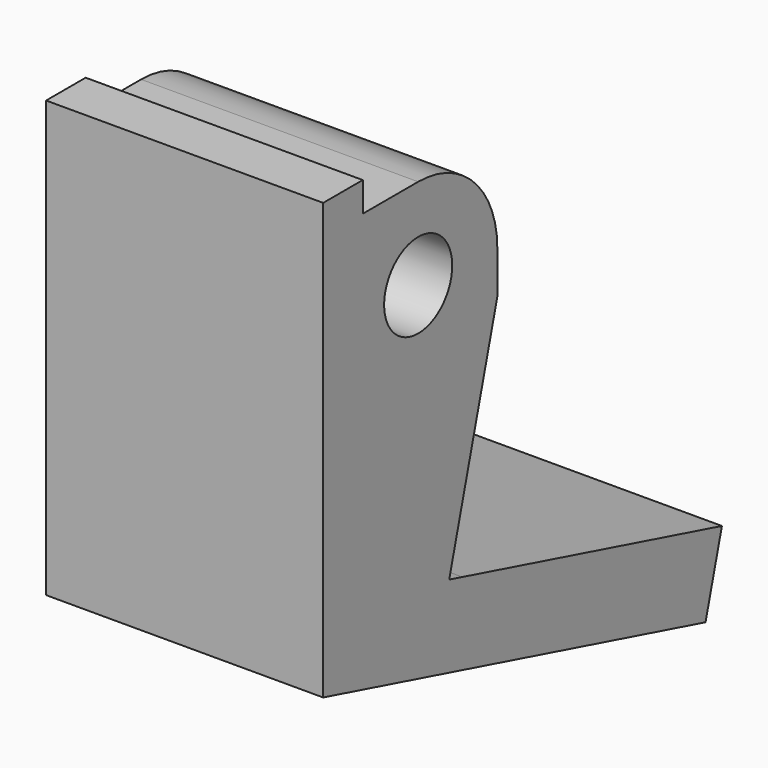
from build123d import *

# Parameters (mm, degrees)
CYLINDER_R           = 2.15
CYLINDER_DEPTH       = 50
CYLINDER_PITCH_ANGLE = 90
BOX002_W             = 14
BOX002_H             = 11
BOX002_DEPTH         = 20.5
CHAMFER_SIZE         = 4
FILLET001_R          = 5
BOX003_W             = 14
BOX003_H             = 25
BOX003_DEPTH         = 4
BOX003_ROLL_ANGLE    = -15
BOX004_W             = 14
BOX004_H             = 2.5
BOX004_DEPTH         = 5
POCKET006_DEPTH      = 15


with BuildPart() as cylinder:
    # Cylinder → Cylinder (new body)
    with BuildSketch(Plane.XY):
        Circle(CYLINDER_R)
    extrude(amount=CYLINDER_DEPTH)


with BuildPart() as cylinder_1:
    # Cylinder pitch: moved
    add(cylinder.part.rotate(Axis((0, 0, 0), (0, 1, 0)), CYLINDER_PITCH_ANGLE))


with BuildPart() as cylinder_2:
    # Cylinder placement: moved
    add(cylinder_1.part.moved(Location((31, -6, 12.9))))


with BuildPart() as fillet001:
    # Box002 → Box002 (new body)
    with BuildSketch(Plane(origin=(52, -12, -3), x_dir=(1, 0, 0), z_dir=(0, 0, 1))):
        with Locations((7, 5.5)):
            Rectangle(BOX002_W, BOX002_H)
    extrude(amount=BOX002_DEPTH)

    # Chamfer
    chamfer_edges = [fillet001.edges().sort_by_distance(p)[0] for p in [
        (59, -1, -3),
    ]]
    chamfer(chamfer_edges, length=CHAMFER_SIZE)

    # Fillet001
    fillet001_edges = [fillet001.edges().sort_by_distance(p)[0] for p in [
        (59, -1, 17.5),
    ]]
    fillet(fillet001_edges, radius=FILLET001_R)


with BuildPart() as cube002:
    # Box003 → Box003 (new body)
    with BuildSketch(Plane.XY):
        with Locations((7, 12.5)):
            Rectangle(BOX003_W, BOX003_H)
    extrude(amount=BOX003_DEPTH)


with BuildPart() as cube002_1:
    # Box003 roll: moved
    add(cube002.part.rotate(Axis((0, 0, 0), (1, 0, 0)), BOX003_ROLL_ANGLE))


with BuildPart() as cube002_2:
    # Box003 placement: moved
    add(cube002_1.part.moved(Location((52, -12, -3))))


with BuildPart() as obj1:
    # Box004 → Box004 (new body)
    with BuildSketch(Plane(origin=(52, -12, 14), x_dir=(1, 0, 0), z_dir=(0, 0, 1))):
        with Locations((7, 1.25)):
            Rectangle(BOX004_W, BOX004_H)
    extrude(amount=BOX004_DEPTH)

    # Fusion: union Fillet001, Cube002
    add(fillet001.part)
    add(cube002_2.part)

    # Cut001: cut Cylinder
    add(cylinder_2.part, mode=Mode.SUBTRACT)

    # Sketch006 → Pocket006 (cut)
    with BuildSketch(Plane.YZ.offset(66)):
        Polygon((13.183422, -5.606773), (-4.041064, -0.991486), (-0.407217, 12.570217), align=None)
    extrude(amount=-POCKET006_DEPTH, mode=Mode.SUBTRACT)


solid = obj1.part
